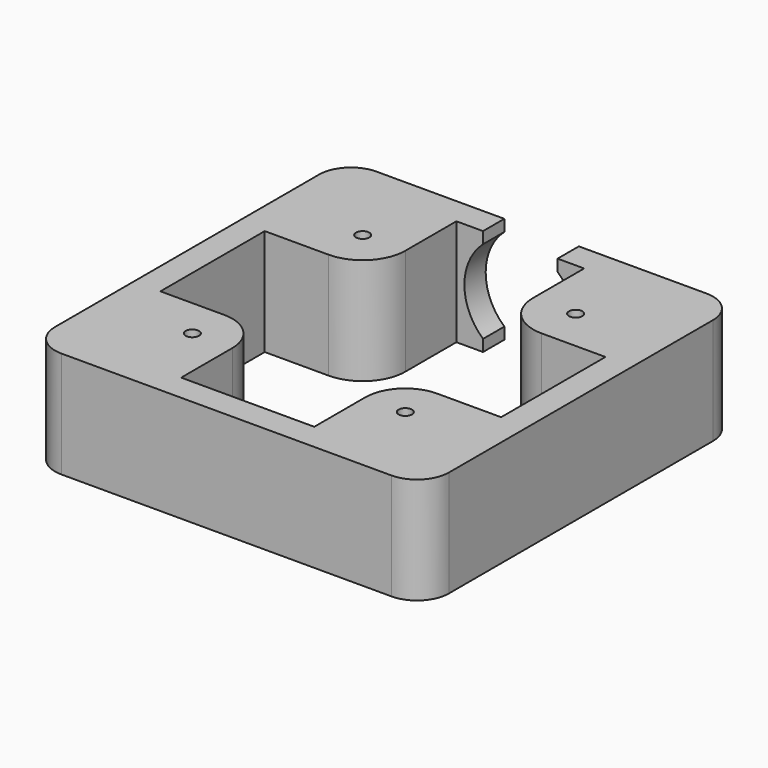
from build123d import *

# Parameters (mm, degrees)
F1_DEPTH = 20
F3_DEPTH = 25
F6_D     = 2.5


with BuildPart() as f1:
    # F0 (on Top) → F1 (new body)
    with BuildSketch(Plane.XY):
        with BuildLine():
            Line((0, 68), (0, 6))
            ThreePointArc((0, 6), (1.757359, 1.757359), (6, 0))
            Line((6, 0), (37, 0))
            Line((37, 0), (68, 0))
            ThreePointArc((68, 0), (72.242641, 1.757359), (74, 6))
            Line((74, 6), (74, 68))
            ThreePointArc((74, 68), (72.242641, 72.242641), (68, 74))
            Line((68, 74), (44, 74))
            Line((44, 74), (44, 69))
            Line((44, 69), (49, 69))
            Line((49, 69), (49, 57))
            ThreePointArc((49, 57), (51.343146, 51.343146), (57, 49))
            Line((57, 49), (69, 49))
            Line((69, 49), (69, 24.5))
            Line((69, 24.5), (57, 24.5))
            ThreePointArc((57, 24.5), (51.696699, 22.303301), (49.5, 17))
            Line((49.5, 17), (49.5, 5))
            Line((49.5, 5), (24.5, 5))
            Line((24.5, 5), (24.5, 17))
            ThreePointArc((24.5, 17), (22.303301, 22.303301), (17, 24.5))
            Line((17, 24.5), (5, 24.5))
            Line((5, 24.5), (5, 49))
            Line((5, 49), (17, 49))
            ThreePointArc((17, 49), (22.656854, 51.343146), (25, 57))
            Line((25, 57), (25, 69))
            Line((25, 69), (30, 69))
            Line((30, 69), (30, 74))
            Line((30, 74), (6, 74))
            ThreePointArc((6, 74), (1.757359, 72.242641), (0, 68))
        make_face()
    extrude(amount=F1_DEPTH)


with BuildPart() as f3:
    # F2 (on face) → F3 (new body)
    with BuildSketch(Plane(origin=(0, 74, 0), x_dir=(-1, 0, 0), z_dir=(0, 1, 0))):
        with BuildLine():
            ThreePointArc((-26.5, 10), (-37, 20.5), (-47.5, 10))
            Line((-47.5, 10), (-26.5, 10))
        make_face()
        with BuildLine():
            Line((-26.5, 10), (-47.5, 10))
            ThreePointArc((-47.5, 10), (-37, -0.5), (-26.5, 10))
        make_face()
    extrude(amount=-F3_DEPTH)


with BuildPart() as f1_1:
    add(f1.part)

    # F4: cut F3
    add(f3.part, mode=Mode.SUBTRACT)

    # F6 (through all)
    with Locations(Plane.XY.offset(20)):
        with Locations((17, 57), (57, 57), (57, 17), (17, 17)):
            Hole(F6_D / 2)


solid = f1_1.part
